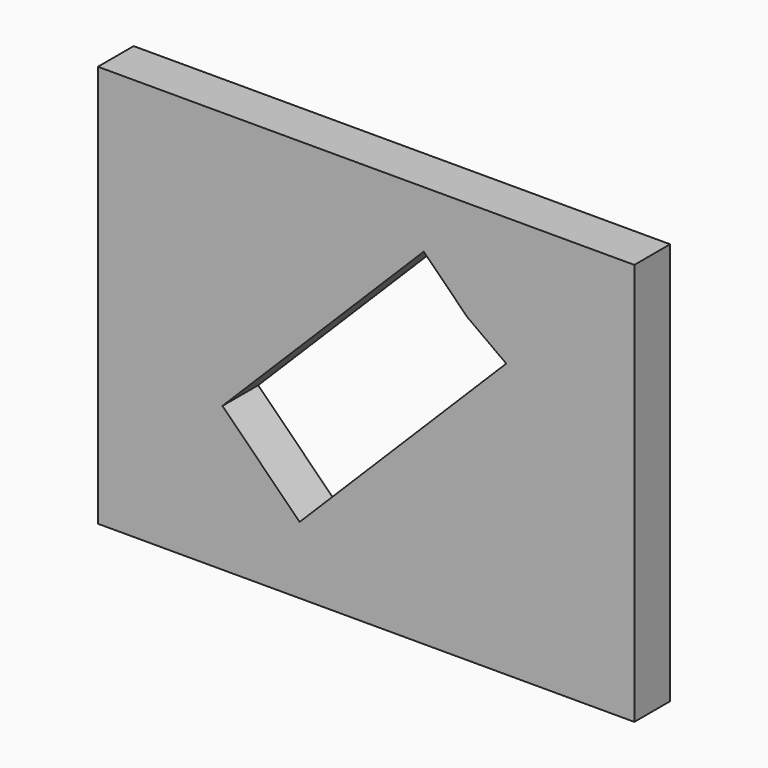
from build123d import *

# Parameters (mm, degrees)
F0_W     = 152.4
F0_H     = 114.3
F1_DEPTH = 12.7


with BuildPart() as f1:
    # F0 (on Front) → F1 (new body)
    with BuildSketch(Plane.XZ):
        with Locations((0, 0.077839)):
            Rectangle(F0_W, F0_H)
        Polygon((16.373465, 41.100174), (28.73682, 28.73682), (39.803969, 20.706104), (-18.896834, -37.994699), (-40.809121, -16.082412), align=None, mode=Mode.SUBTRACT)
    extrude(amount=F1_DEPTH)


solid = f1.part
